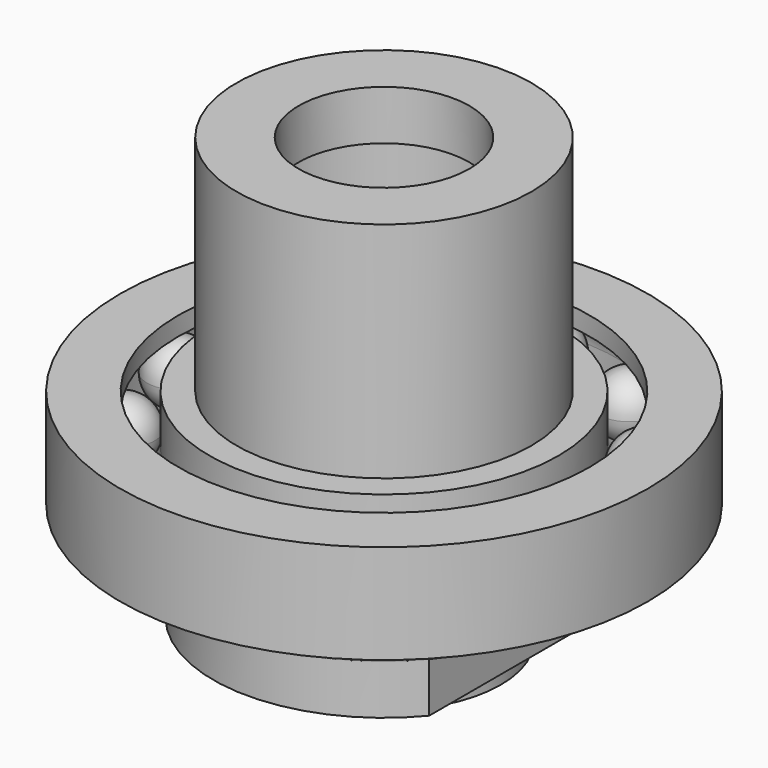
from build123d import *

# Parameters (mm, degrees)
F3_START = -7.001
F2_W     = 85
F2_H     = 110
F3_DEPTH = 106.002
F0_W     = 10
F0_H     = 16
F7_COUNT = 12


with BuildPart() as f1:
    # F0 (on Front) → F1 (revolve)
    with BuildSketch(Plane.XZ):
        Polygon((25, 99), (25, -7), (37.65, -7), (37.65, 0), (55, 0), (55, 16), (37.5, 16), (37.5, 32), (37.375, 32), (37.375, 99), align=None)
    revolve(axis=Axis((0, 0, 46), (0, 0, 1)))

    # F2 (on Top) → F3 (intersect)
    with BuildSketch(Plane.XY.offset(F3_START)):
        Rectangle(F2_W, F2_H)
    extrude(amount=F3_DEPTH, mode=Mode.INTERSECT)


with BuildPart() as f4:
    # F0 (on Front) → F4 (revolve)
    with BuildSketch(Plane.XZ):
        with Locations((32.5, 128)):
            Rectangle(F0_W, F0_H)
        Polygon((37.5, 120), (37.5, 32), (37.5, 16), (55, 16), (55, 32), (47.5, 32), (47.5, 64), (47.5, 136), (37.5, 136), align=None)
    revolve(axis=Axis((0, 0, 46), (0, 0, 1)))


with BuildPart() as f5:
    # F0 (on Front) → F5 (revolve)
    with BuildSketch(Plane.XZ):
        with BuildLine():
            Line((47.5, 32), (55, 32))
            Line((55, 32), (66.25, 32))
            Line((66.25, 32), (66.25, 38))
            ThreePointArc((66.25, 38), (59.1789321881, 40.9289321881), (56.25, 48))
            Line((56.25, 48), (56.25, 64))
            Line((56.25, 64), (47.5, 64))
            Line((47.5, 64), (47.5, 32))
        make_face()
    revolve(axis=Axis((0, 0, 46), (0, 0, 1)))


with BuildPart() as f5b:
    # F0 (on Front) → F5, piece 2 (revolve)
    with BuildSketch(Plane.XZ):
        with BuildLine():
            Line((76.25, 48), (76.25, 32))
            Line((76.25, 32), (85, 32))
            Line((85, 32), (85, 64))
            Line((85, 64), (66.25, 64))
            Line((66.25, 64), (66.25, 58))
            ThreePointArc((66.25, 58), (73.3210678119, 55.0710678119), (76.25, 48))
        make_face()
    revolve(axis=Axis((0, 0, 46), (0, 0, 1)))


with BuildPart() as f6:
    # F0 (on Front) → F6 (revolve)
    with BuildSketch(Plane.XZ):
        with BuildLine():
            ThreePointArc((56.25, 48), (59.1789321881, 40.9289321881), (66.25, 38))
            Line((66.25, 38), (66.25, 58))
            ThreePointArc((66.25, 58), (59.1789321881, 55.0710678119), (56.25, 48))
        make_face()
    revolve(axis=Axis((66.25, 0, 48), (0, 0, -1)))


with BuildPart() as f7_1:
    # F7: instance of F6
    add(f6.part.rotate(Axis((0, 0, 46), (0, 0, 1)), 1 * 360 / F7_COUNT))


with BuildPart() as f7_2:
    # F7: instance of F6
    add(f6.part.rotate(Axis((0, 0, 46), (0, 0, 1)), 2 * 360 / F7_COUNT))


with BuildPart() as f7_3:
    # F7: instance of F6
    add(f6.part.rotate(Axis((0, 0, 46), (0, 0, 1)), 3 * 360 / F7_COUNT))


with BuildPart() as f7_4:
    # F7: instance of F6
    add(f6.part.rotate(Axis((0, 0, 46), (0, 0, 1)), 4 * 360 / F7_COUNT))


with BuildPart() as f7_5:
    # F7: instance of F6
    add(f6.part.rotate(Axis((0, 0, 46), (0, 0, 1)), 5 * 360 / F7_COUNT))


with BuildPart() as f7_6:
    # F7: instance of F6
    add(f6.part.rotate(Axis((0, 0, 46), (0, 0, 1)), 6 * 360 / F7_COUNT))


with BuildPart() as f7_7:
    # F7: instance of F6
    add(f6.part.rotate(Axis((0, 0, 46), (0, 0, 1)), 7 * 360 / F7_COUNT))


with BuildPart() as f7_8:
    # F7: instance of F6
    add(f6.part.rotate(Axis((0, 0, 46), (0, 0, 1)), 8 * 360 / F7_COUNT))


with BuildPart() as f7_9:
    # F7: instance of F6
    add(f6.part.rotate(Axis((0, 0, 46), (0, 0, 1)), 9 * 360 / F7_COUNT))


with BuildPart() as f7_10:
    # F7: instance of F6
    add(f6.part.rotate(Axis((0, 0, 46), (0, 0, 1)), 10 * 360 / F7_COUNT))


with BuildPart() as f7_11:
    # F7: instance of F6
    add(f6.part.rotate(Axis((0, 0, 46), (0, 0, 1)), 11 * 360 / F7_COUNT))


solid = Compound([f1.part, f4.part, f5.part, f5b.part, f6.part, f7_1.part, f7_2.part, f7_3.part, f7_4.part, f7_5.part, f7_6.part, f7_7.part, f7_8.part, f7_9.part, f7_10.part, f7_11.part])
